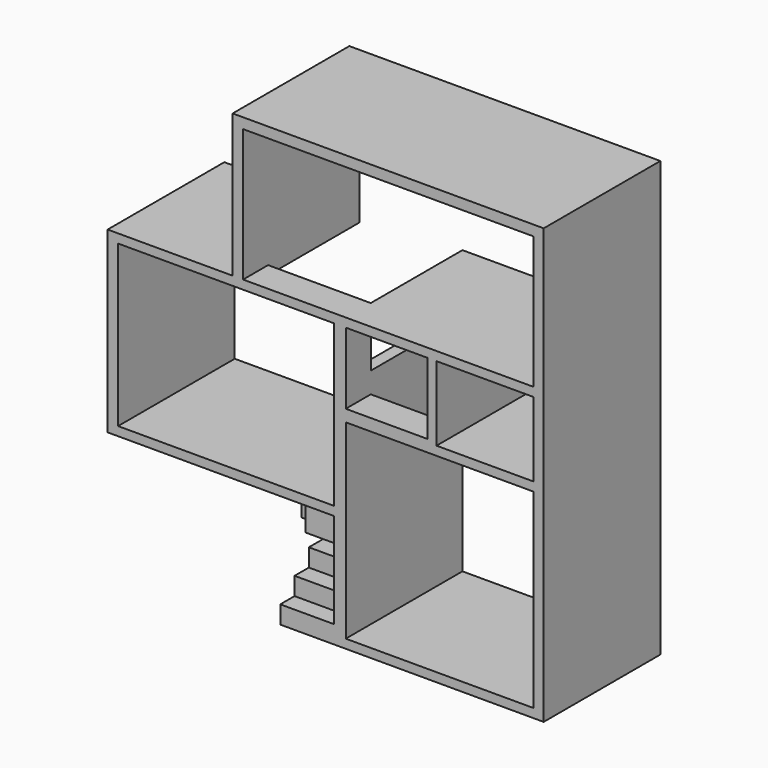
from build123d import *

# Parameters (mm, degrees)
F0_W       = 1651
F0_H       = 1270
F1_DEPTH   = 2489.2
F2_W       = 533.4
F2_H       = 152.4
F3_DEPTH   = 1752.6
F4_W       = 203.2
F4_H       = 533.4
F5_DEPTH   = 863.6
F6_W       = 533.4
F6_H       = 203.2
F7_DEPTH   = 1397
F9_DEPTH   = 914.4
F9_FACE_W  = 914.4
F9_FACE_H  = 304.8
F10_DEPTH  = 711.2
F10_FACE_W = 914.4
F10_FACE_H = 1930.4
F11_DEPTH  = 1270
F13_DEPTH  = 1016
F14_W      = 914.4
F14_H      = 914.4
F15_DEPTH  = 1574.546


with BuildPart() as f1:
    # F0 (on Front) → F1 (new body)
    with BuildSketch(Plane.XZ):
        Polygon((5130.8, -4978.4), (5130.8, 2438.4), (-177.8, 2438.4), (-177.8, 0), (-2311.4, 0), (-2311.4, -3048), (1549.4, -3048), (1549.4, -4978.4), align=None)
        Polygon((4953, 2260.6), (4953, 0), (1752.6, 0), (1752.6, -152.4), (3149.6, -152.4), (3149.6, -1574.8), (4953, -1574.8), (4953, -4826), (1752.6, -4826), (1752.6, -1016), (1549.4, -1016), (1549.4, -2895.6), (-2133.6, -2895.6), (-2133.6, -152.4), (0, -152.4), (0, 0), (0, 2260.6), align=None, mode=Mode.SUBTRACT)
        with Locations((4127.5, -787.4)):
            Rectangle(F0_W, F0_H, mode=Mode.SUBTRACT)
    extrude(amount=F1_DEPTH)

    # F2 (on face) → F3 (join, through all)
    with BuildSketch(Plane(origin=(1752.6, 0, 0), x_dir=(0, -1, 0), z_dir=(-1, 0, 0))):
        with Locations((2222.5, -76.2)):
            Rectangle(F2_W, F2_H)
    extrude(amount=F3_DEPTH)

    # F4 (on face) → F5 (join, through all)
    with BuildSketch(Plane.XY.offset(-1016)):
        with Locations((1651, -2222.5)):
            Rectangle(F4_W, F4_H)
    extrude(amount=F5_DEPTH)

    # F6 (on face) → F7 (join, through all)
    with BuildSketch(Plane(origin=(3149.6, 0, 0), x_dir=(0, -1, 0), z_dir=(-1, 0, 0))):
        with Locations((2222.5, -1473.2)):
            Rectangle(F6_W, F6_H)
    extrude(amount=F7_DEPTH)

    # F8 (on face) → F9 (join)
    with BuildSketch(Plane(origin=(1549.4, 0, 0), x_dir=(0, -1, 0), z_dir=(-1, 0, 0))):
        Polygon((1270, -4978.4), (2489.2, -4978.4), (2489.2, -4673.6), (2184.4, -4673.6), (2184.4, -4368.8), (1879.6, -4368.8), (1879.6, -4064), (1574.8, -4064), (1574.8, -3759.2), (1270, -3759.2), align=None)
    extrude(amount=F9_DEPTH)

    # F9_face (on face) → F10 (join, through all)
    with BuildSketch(Plane(origin=(1092.2, -1422.4, -3759.2), x_dir=(1, 0, 0), z_dir=(0, 0, 1))):
        Rectangle(F9_FACE_W, F9_FACE_H)
    extrude(amount=F10_DEPTH)

    # F10_face (on face) → F11 (join, through all)
    with BuildSketch(Plane(origin=(1092.2, -1270, -4013.2), x_dir=(-1, 0, 0), z_dir=(0, 1, 0))):
        Rectangle(F10_FACE_W, F10_FACE_H)
    extrude(amount=F11_DEPTH)

    # F12 (on face) → F13 (join, through all)
    with BuildSketch(Plane(origin=(0, 0, -3048), x_dir=(1, 0, 0), z_dir=(0, 0, -1))):
        Polygon((635, 0), (635, 1574.8), (330.2, 1574.8), (330.2, 1270), (25.4, 1270), (25.4, 965.2), (-279.4, 965.2), (-279.4, 660.4), (-584.2, 660.4), (-584.2, 355.6), (-889, 355.6), (-889, 176.380713), (-1193.8, 176.380713), (-1193.8, 0), align=None)
    extrude(amount=F13_DEPTH)

    # F14 (on face) → F15 (cut)
    with BuildSketch(Plane(origin=(0, 0, 0), x_dir=(-1, 0, 0), z_dir=(0, 1, 0))):
        with Locations((-1092.2, -4521.2)):
            Rectangle(F14_W, F14_H)
    extrude(amount=-F15_DEPTH, mode=Mode.SUBTRACT)


solid = f1.part
